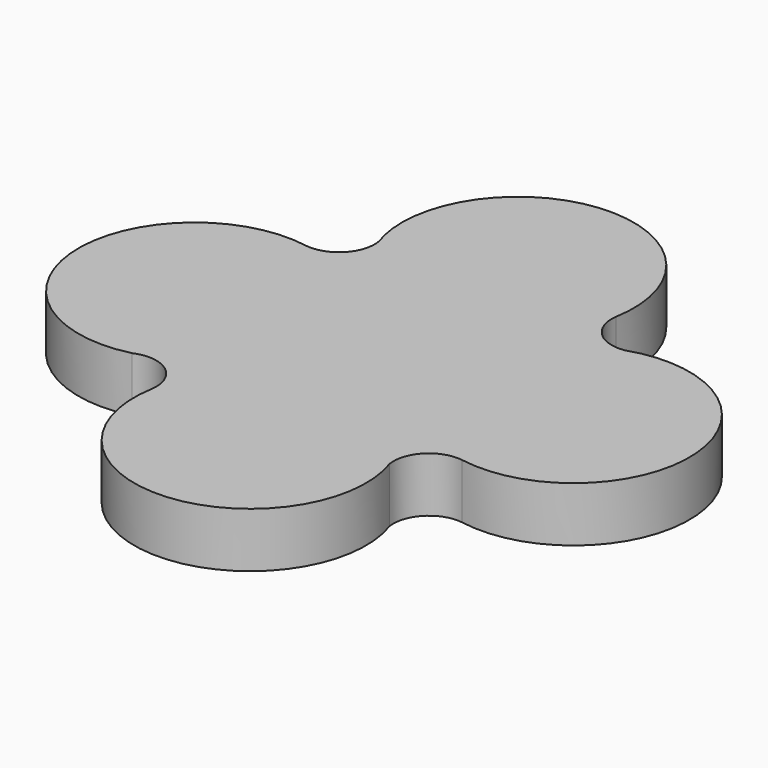
from build123d import *

# Parameters (mm, degrees)
F0_R     = 11.1
F1_DEPTH = 7
F2_DEPTH = 9


with BuildPart() as f1:
    # F0 (on Top) → F1 (new body)
    with BuildSketch(Plane.XY):
        with BuildLine():
            ThreePointArc((-26.341428, -16.80438), (-16.590351, -18.23282), (-12.994606, -27.40858))
            ThreePointArc((-12.994606, -27.40858), (2.114536, -45.016492), (16.414367, -26.745214))
            ThreePointArc((16.414367, -26.745214), (17.842807, -16.994137), (27.018567, -13.398392))
            ThreePointArc((27.018567, -13.398392), (44.626479, 1.71075), (26.355201, 16.010581))
            ThreePointArc((26.355201, 16.010581), (16.604124, 17.439021), (13.008379, 26.614781))
            ThreePointArc((13.008379, 26.614781), (-2.100763, 44.222693), (-16.400594, 25.951415))
            ThreePointArc((-16.400594, 25.951415), (-17.829034, 16.200338), (-27.004794, 12.604593))
            ThreePointArc((-27.004794, 12.604593), (-44.612706, -2.504549), (-26.341428, -16.80438))
        make_face()
        Circle(F0_R, mode=Mode.SUBTRACT)
    extrude(amount=F1_DEPTH)


with BuildPart() as f2:
    # F0 (on Top) → F2 (new body)
    with BuildSketch(Plane.XY):
        with BuildLine():
            ThreePointArc((-20.216963, 24.70624), (-20.869737, 18.8064), (-26.36112, 16.552751))
            ThreePointArc((-26.36112, 16.552751), (-48.605531, -2.812407), (-25.096253, -20.620749))
            ThreePointArc((-25.096253, -20.620749), (-19.196413, -21.273523), (-16.942764, -26.764906))
            ThreePointArc((-16.942764, -26.764906), (3.243662, -48.963558), (19.770673, -23.920997))
            ThreePointArc((19.770673, -23.920997), (21.425083, -18.978612), (26.374893, -17.34655))
            ThreePointArc((26.374893, -17.34655), (48.573545, 2.839876), (23.530984, 19.366887))
            ThreePointArc((23.530984, 19.366887), (18.588599, 21.021297), (16.956537, 25.971107))
            ThreePointArc((16.956537, 25.971107), (-2.408621, 48.215518), (-20.216963, 24.70624))
        make_face()
        with BuildLine():
            ThreePointArc((16.414367, -26.745214), (2.114536, -45.016492), (-12.994606, -27.40858))
            ThreePointArc((-12.994606, -27.40858), (-16.590351, -18.23282), (-26.341428, -16.80438))
            ThreePointArc((-26.341428, -16.80438), (-44.612706, -2.504549), (-27.004794, 12.604593))
            ThreePointArc((-27.004794, 12.604593), (-17.829034, 16.200338), (-16.400594, 25.951415))
            ThreePointArc((-16.400594, 25.951415), (-2.100763, 44.222693), (13.008379, 26.614781))
            ThreePointArc((13.008379, 26.614781), (16.604124, 17.439021), (26.355201, 16.010581))
            ThreePointArc((26.355201, 16.010581), (44.626479, 1.71075), (27.018567, -13.398392))
            ThreePointArc((27.018567, -13.398392), (17.842807, -16.994137), (16.414367, -26.745214))
        make_face(mode=Mode.SUBTRACT)
        with BuildLine():
            ThreePointArc((-26.341428, -16.80438), (-16.590351, -18.23282), (-12.994606, -27.40858))
            ThreePointArc((-12.994606, -27.40858), (2.114536, -45.016492), (16.414367, -26.745214))
            ThreePointArc((16.414367, -26.745214), (17.842807, -16.994137), (27.018567, -13.398392))
            ThreePointArc((27.018567, -13.398392), (44.626479, 1.71075), (26.355201, 16.010581))
            ThreePointArc((26.355201, 16.010581), (16.604124, 17.439021), (13.008379, 26.614781))
            ThreePointArc((13.008379, 26.614781), (-2.100763, 44.222693), (-16.400594, 25.951415))
            ThreePointArc((-16.400594, 25.951415), (-17.829034, 16.200338), (-27.004794, 12.604593))
            ThreePointArc((-27.004794, 12.604593), (-44.612706, -2.504549), (-26.341428, -16.80438))
        make_face()
        Circle(F0_R, mode=Mode.SUBTRACT)
        Circle(F0_R)
    extrude(amount=F2_DEPTH)

    # F3: cut F1
    add(f1.part, mode=Mode.SUBTRACT)


solid = f2.part
